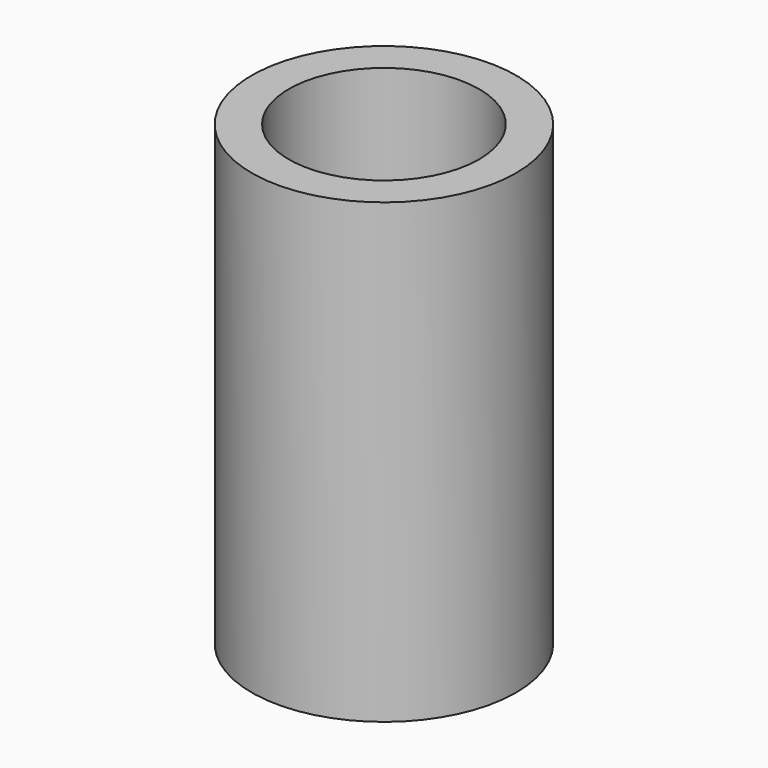
from build123d import *

# Parameters (mm, degrees)
F0_R     = 44.054274
F0_R_2   = 31.726762
F1_DEPTH = 152.4


with BuildPart() as f1:
    # F0 (on Top) → F1 (new body)
    with BuildSketch(Plane.XY):
        Circle(F0_R)
        Circle(F0_R_2, mode=Mode.SUBTRACT)
        Circle(F0_R)
        Circle(F0_R_2, mode=Mode.SUBTRACT)
    extrude(amount=F1_DEPTH)


solid = f1.part
